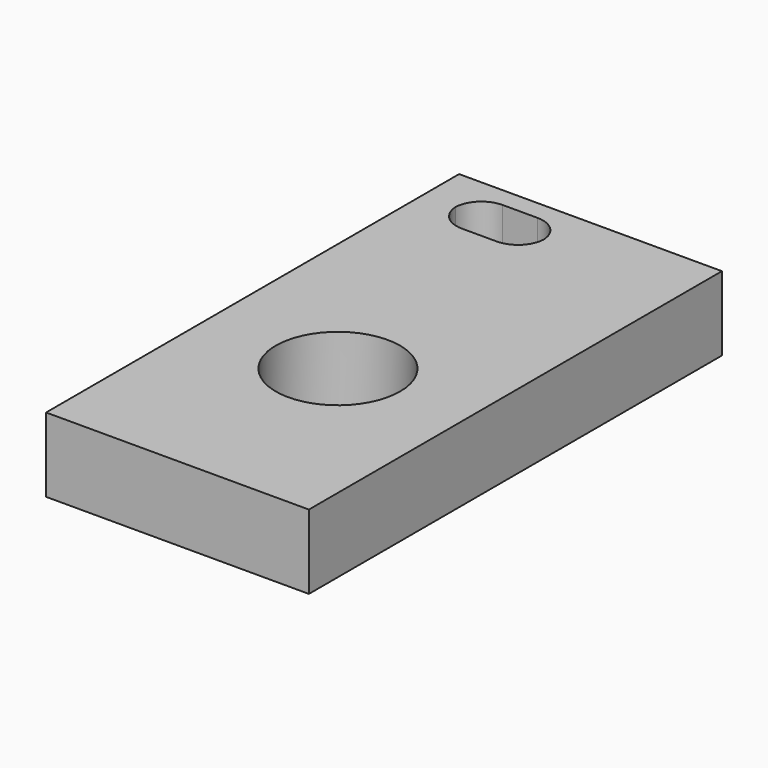
from build123d import *

# Parameters (mm, degrees)
F0_W     = 89.875921
F0_H     = 176.559519
F0_R     = 21.247903
F1_DEPTH = 25.4


with BuildPart() as f1:
    # F0 (on Top) → F1 (new body)
    with BuildSketch(Plane.XY):
        with Locations((5.27959, 39.050722)):
            Rectangle(F0_W, F0_H)
        with Locations((5.334, 19.290369)):
            Circle(F0_R, mode=Mode.SUBTRACT)
        with BuildLine():
            Line((-7.477125, 103.173869), (-19.383375, 103.173869))
            ThreePointArc((-19.383375, 103.173869), (-25.696058, 105.708611), (-28.502868, 111.905119))
            ThreePointArc((-28.502868, 111.905119), (-25.696058, 118.101627), (-19.383375, 120.636369))
            Line((-19.383375, 120.636369), (-7.477125, 120.636369))
            ThreePointArc((-7.477125, 120.636369), (-1.164442, 118.101627), (1.642368, 111.905119))
            ThreePointArc((1.642368, 111.905119), (-1.164442, 105.708611), (-7.477125, 103.173869))
        make_face(mode=Mode.SUBTRACT)
    extrude(amount=F1_DEPTH)


solid = f1.part
